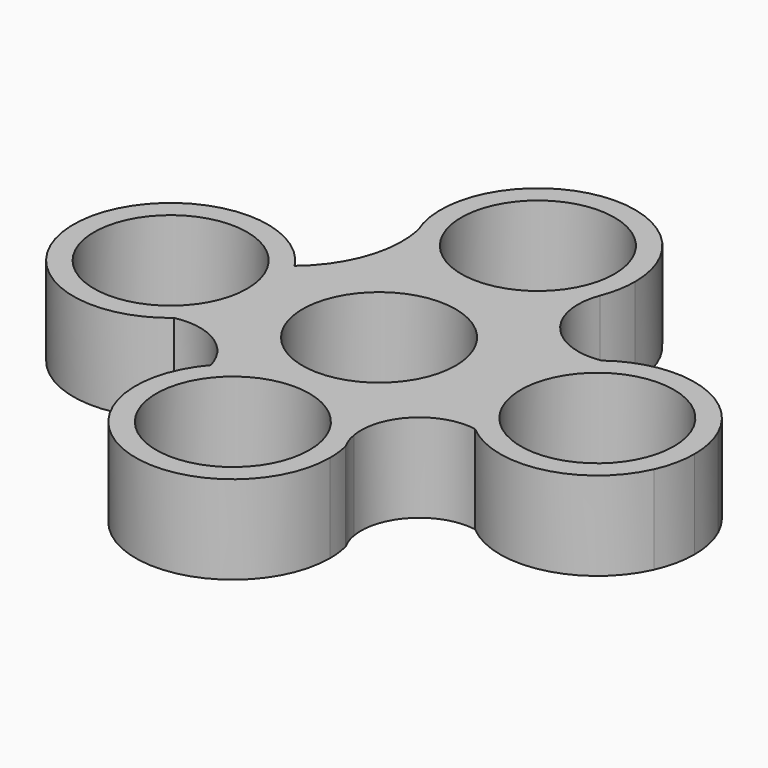
from build123d import *

# Parameters (mm, degrees)
F0_R     = 10.9982
F1_DEPTH = 12.7


with BuildPart() as f1:
    # F0 (on Top) → F1 (new body)
    with BuildSketch(Plane.XY):
        with BuildLine():
            ThreePointArc((-12.8911538343, 23.1309812626), (0.1344337077, 14.5448476662), (12.9923672765, 23.3800706565))
            ThreePointArc((12.9923672765, 23.3800706565), (13.7234155889, 25.9010103246), (13.97, 28.5142008215))
            ThreePointArc((13.97, 28.5142008215), (-2.7451303188, 42.2118341767), (-12.8911538343, 23.1309812626))
        make_face()
        with Locations((0, 28.5142008215)):
            Circle(F0_R, mode=Mode.SUBTRACT)
        with BuildLine():
            ThreePointArc((22.2838142213, -10.6272858301), (17.3886665619, 0.4495282156), (22.9861698039, 11.1885336382))
            ThreePointArc((22.9861698039, 11.1885336382), (14.477603867, 14.4056755038), (12.9923672765, 23.3800706565))
            ThreePointArc((12.9923672765, 23.3800706565), (0.1344337077, 14.5448476662), (-12.8911538343, 23.1309812626))
            ThreePointArc((-12.8911538343, 23.1309812626), (-13.4224968925, 14.6502977979), (-18.2472138965, 7.6555552505))
            ThreePointArc((-18.2472138965, 7.6555552505), (-16.5460943978, 3.9945583246), (-15.9628193069, 0))
            ThreePointArc((-15.9628193069, 0), (-17.2599076539, -5.8786231583), (-20.9103082456, -10.6656080065))
            ThreePointArc((-20.9103082456, -10.6656080065), (-14.446049098, -11.7957961727), (-10.5239803599, -17.0571028955))
            ThreePointArc((-10.5239803599, -17.0571028955), (-7.90695155, -14.7274286335), (-4.7925511239, -13.1222084165))
            ThreePointArc((-4.7925511239, -13.1222084165), (-8.0065273621, 11.4479875786), (13.97, 0))
            ThreePointArc((13.97, 0), (11.4479875786, -8.0065273621), (4.7925511239, -13.1222084165))
            ThreePointArc((4.7925511239, -13.1222084165), (9.4100623481, -15.9191262024), (12.6223312654, -20.257961001))
            ThreePointArc((12.6223312654, -20.257961001), (14.9684584098, -12.9500609929), (22.2838142213, -10.6272858301))
        make_face()
        with BuildLine():
            ThreePointArc((44.0738063138, -5.7707969136), (44.3558518724, -2.8915228992), (44.45, 0))
            ThreePointArc((44.45, 0), (44.3558518724, 2.8915228992), (44.0738063138, 5.7707969136))
            ThreePointArc((44.0738063138, 5.7707969136), (34.8276475911, 13.5305885528), (22.9861698039, 11.1885336382))
            ThreePointArc((22.9861698039, 11.1885336382), (17.3886665619, 0.4495282156), (22.2838142213, -10.6272858301))
            ThreePointArc((22.2838142213, -10.6272858301), (34.3904586495, -13.6354397899), (44.0738063138, -5.7707969136))
        make_face()
        with Locations((31.3514322042, 0)):
            Circle(F0_R, mode=Mode.SUBTRACT)
        with BuildLine():
            ThreePointArc((-15.9628193069, 0), (-16.5460943978, 3.9945583246), (-18.2472138965, 7.6555552505))
            ThreePointArc((-18.2472138965, 7.6555552505), (-43.7575354965, 2.0095079688), (-20.9103082456, -10.6656080065))
            ThreePointArc((-20.9103082456, -10.6656080065), (-17.2599076539, -5.8786231583), (-15.9628193069, 0))
        make_face()
        with Locations((-29.9328193069, 0)):
            Circle(F0_R, mode=Mode.SUBTRACT)
        with BuildLine():
            ThreePointArc((13.5840434167, -22.9833335078), (12.9846567282, -21.6624735847), (12.6223312654, -20.257961001))
            ThreePointArc((12.6223312654, -20.257961001), (9.4100623481, -15.9191262024), (4.7925511239, -13.1222084165))
            ThreePointArc((4.7925511239, -13.1222084165), (0, -13.97), (-4.7925511239, -13.1222084165))
            ThreePointArc((-4.7925511239, -13.1222084165), (-7.90695155, -14.7274286335), (-10.5239803599, -17.0571028955))
            ThreePointArc((-10.5239803599, -17.0571028955), (-4.9061642029, -39.3245717561), (13.97, -26.2444168329))
            ThreePointArc((13.97, -26.2444168329), (13.873175313, -24.6024951739), (13.5840434167, -22.9833335078))
        make_face()
        with Locations((0, -26.2444168329)):
            Circle(F0_R, mode=Mode.SUBTRACT)
        with BuildLine():
            ThreePointArc((-4.7925511239, -13.1222084165), (0, -13.97), (4.7925511239, -13.1222084165))
            ThreePointArc((4.7925511239, -13.1222084165), (0, -12.2744168329), (-4.7925511239, -13.1222084165))
        make_face()
        with BuildLine():
            ThreePointArc((-4.7925511239, -13.1222084165), (0, -12.2744168329), (4.7925511239, -13.1222084165))
            ThreePointArc((4.7925511239, -13.1222084165), (11.4479875786, -8.0065273621), (13.97, 0))
            ThreePointArc((13.97, 0), (-8.0065273621, 11.4479875786), (-4.7925511239, -13.1222084165))
        make_face()
        Circle(F0_R, mode=Mode.SUBTRACT)
        with BuildLine():
            ThreePointArc((44.0738063138, 5.7707969136), (44.3558518724, 2.8915228992), (44.45, 0))
            ThreePointArc((44.45, 0), (44.3558518724, -2.8915228992), (44.0738063138, -5.7707969136))
            ThreePointArc((44.0738063138, -5.7707969136), (45.005963802, -2.9520614569), (45.3214322042, 0))
            ThreePointArc((45.3214322042, 0), (45.005963802, 2.9520614569), (44.0738063138, 5.7707969136))
        make_face()
    extrude(amount=F1_DEPTH)


solid = f1.part
